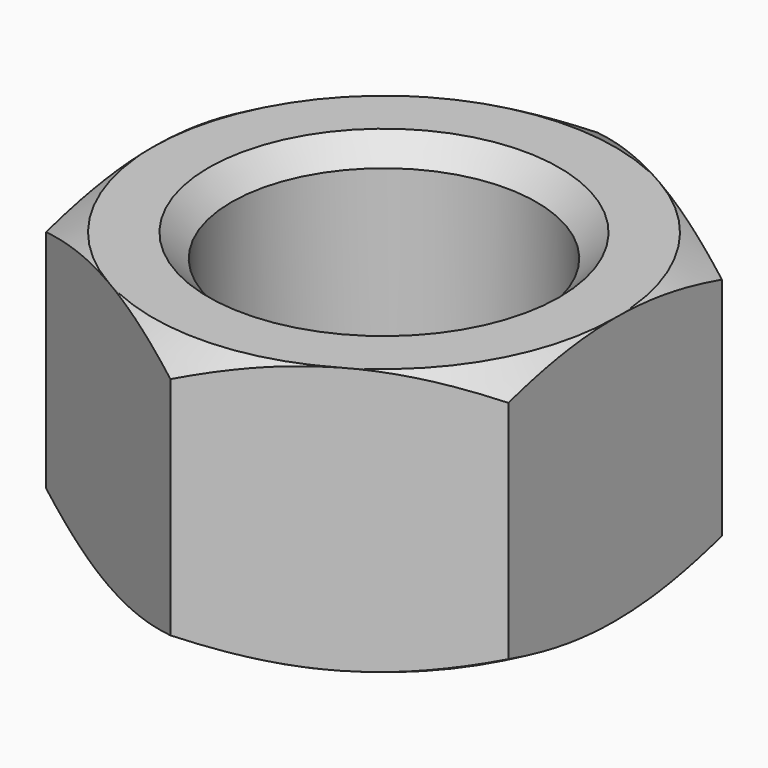
from build123d import *

# Parameters (mm, degrees)
F0_R     = 2
F1_DEPTH = 3.5
F4_SIZE  = 0.3


with BuildPart() as f1:
    # F0 (on Top) → F1 (new body)
    with BuildSketch(Plane.XY):
        Polygon((-3.031089, -1.75), (0, -3.5), (3.031089, -1.75), (3.031089, 1.75), (0, 3.5), (-3.031089, 1.75), align=None)
        Circle(F0_R, mode=Mode.SUBTRACT)
    extrude(amount=-F1_DEPTH)

    # F2 (on Front) → F3 (revolve, cut)
    with BuildSketch(Plane.XZ):
        Polygon((5.80237, 0), (3.031089, 0), (5.80237, -1.6), align=None)
        Polygon((5.80237, -3.5), (5.80237, -1.9), (3.031089, -3.5), align=None)
    revolve(axis=Axis((0, 0, -1.75), (0, 0, -1)), mode=Mode.SUBTRACT)

    # F4
    f4_edges = [f1.edges().sort_by_distance(p)[0] for p in [
        (-2, 0, 0),
        (-2, 0, -3.5),
    ]]
    chamfer(f4_edges, length=F4_SIZE)


solid = f1.part
